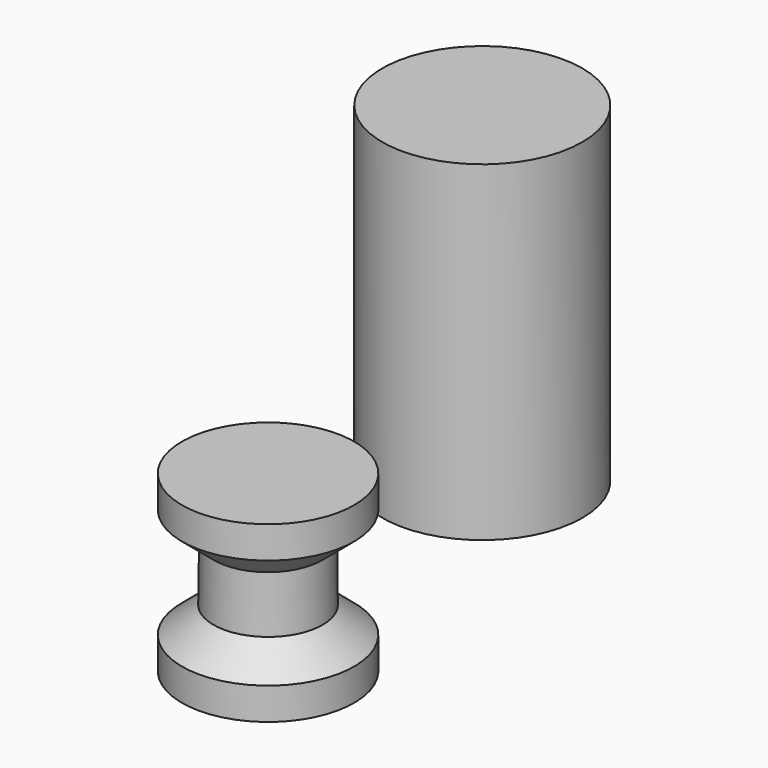
from build123d import *

# Parameters (mm, degrees)
F0_R     = 25
F1_DEPTH = 82.7


with BuildPart() as f1:
    # F0 (on Top) → F1 (new body)
    with BuildSketch(Plane.XY):
        Circle(F0_R)
    extrude(amount=F1_DEPTH)


with BuildPart() as f3:
    # F2 (on Right) → F3 (revolve)
    with BuildSketch(Plane.YZ):
        Polygon((-88.479262, -14.612322), (-66.951208, -14.612322), (-66.951208, 28.901807), (-88.479262, 28.901807), (-88.479262, 20.901807), (-80.45797, 14.171143), (-80.599004, 0), (-88.479262, -6.612322), align=None)
    revolve(axis=Axis((0, -66.951208, 7.144743), (0, 0, 1)))


solid = Compound([f1.part, f3.part])
